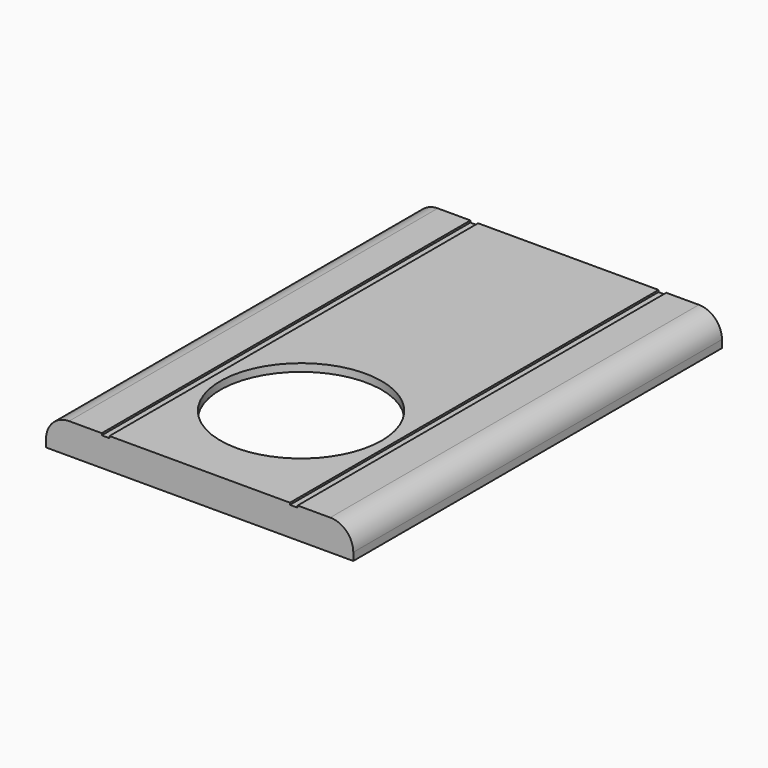
from build123d import *

# Parameters (mm, degrees)
F0_W      = 40
F0_H      = 60
F1_DEPTH  = 4
F2_W      = 1
F2_H      = 60
F3_DEPTH  = 0.25
F4_R      = 3
F6_DEPTH  = 25
F7_W      = 37.999998
F7_H      = 57.999999
F8_DEPTH  = 3
F10_DEPTH = 1


with BuildPart() as f1:
    # F0 (on Top) → F1 (new body)
    with BuildSketch(Plane.XY):
        with Locations((0, 3.187494)):
            Rectangle(F0_W, F0_H)
    extrude(amount=F1_DEPTH)

    # F2 (on face) → F3 (cut)
    with BuildSketch(Plane.XY.offset(4)):
        with Locations((-12.25, 3.187494)):
            Rectangle(F2_W, F2_H)
        with Locations((12.25, 3.187494)):
            Rectangle(F2_W, F2_H)
    extrude(amount=-F3_DEPTH, mode=Mode.SUBTRACT)

    # F4
    f4_edges = [f1.edges().sort_by_distance(p)[0] for p in [
        (-20, 3.187494, 4),
        (20, 3.187494, 4),
    ]]
    fillet(f4_edges, radius=F4_R)

    # F5 (on face) → F6 (cut)
    with BuildSketch(Plane.XY.offset(4)):
        with BuildLine():
            ThreePointArc((0, -20.812506), (7.424621, -17.737128), (10.5, -10.312506))
            ThreePointArc((10.5, -10.312506), (-7.424621, -2.887885), (0, -20.812506))
        make_face()
    extrude(amount=-F6_DEPTH, mode=Mode.SUBTRACT)

    # F7 (on face) → F8 (cut)
    with BuildSketch(Plane(origin=(0, 0, 0), x_dir=(1, 0, 0), z_dir=(0, 0, -1))):
        with Locations((0, -3.187493)):
            Rectangle(F7_W, F7_H)
    extrude(amount=-F8_DEPTH, mode=Mode.SUBTRACT)

    # F9 (on face) → F10 (join)
    with BuildSketch(Plane(origin=(0, 0, 3), x_dir=(1, 0, 0), z_dir=(0, 0, -1))):
        with BuildLine():
            Line((11.5, 21.312506), (11, 21.312506))
            ThreePointArc((11, 21.312506), (11.146447, 20.958953), (11.5, 20.812506))
            Line((11.5, 20.812506), (11.5, 21.312506))
        make_face()
        with BuildLine():
            ThreePointArc((12, 21.312506), (11.5, 21.812506), (11, 21.312506))
            Line((11, 21.312506), (11.5, 21.312506))
            Line((11.5, 21.312506), (11.5, 20.812506))
            ThreePointArc((11.5, 20.812506), (11.853553, 20.958953), (12, 21.312506))
        make_face()
        with BuildLine():
            Line((-11.5, 21.312506), (-11, 21.312506))
            ThreePointArc((-11, 21.312506), (-11.853553, 21.66606), (-11.5, 20.812506))
            Line((-11.5, 20.812506), (-11.5, 21.312506))
        make_face()
        with BuildLine():
            ThreePointArc((-11.5, 20.812506), (-11.146447, 20.958953), (-11, 21.312506))
            Line((-11, 21.312506), (-11.5, 21.312506))
            Line((-11.5, 21.312506), (-11.5, 20.812506))
        make_face()
        with BuildLine():
            Line((11.5, -0.687494), (11.5, -0.187494))
            ThreePointArc((11.5, -0.187494), (11.146447, -0.33394), (11, -0.687494))
            Line((11, -0.687494), (11.5, -0.687494))
        make_face()
        with BuildLine():
            ThreePointArc((12, -0.687494), (11.853553, -0.33394), (11.5, -0.187494))
            Line((11.5, -0.187494), (11.5, -0.687494))
            Line((11.5, -0.687494), (11, -0.687494))
            ThreePointArc((11, -0.687494), (11.5, -1.187494), (12, -0.687494))
        make_face()
        with BuildLine():
            ThreePointArc((-11, -0.687494), (-11.146447, -0.33394), (-11.5, -0.187494))
            Line((-11.5, -0.187494), (-11.5, -0.687494))
            Line((-11.5, -0.687494), (-11, -0.687494))
        make_face()
        with BuildLine():
            Line((-11.5, -0.687494), (-11.5, -0.187494))
            ThreePointArc((-11.5, -0.187494), (-11.853553, -1.041047), (-11, -0.687494))
            Line((-11, -0.687494), (-11.5, -0.687494))
        make_face()
    extrude(amount=F10_DEPTH)


solid = f1.part
